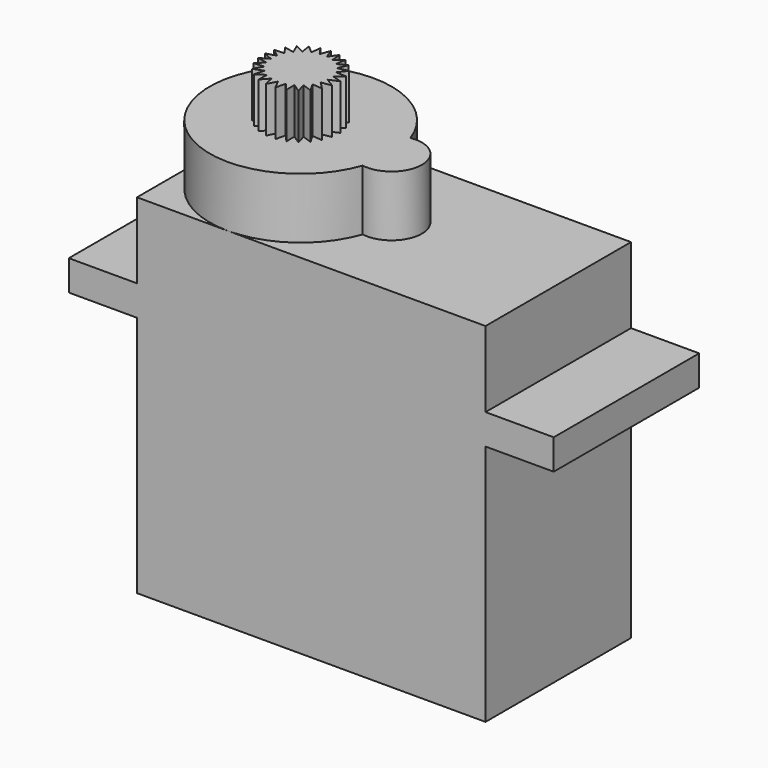
from build123d import *

# Parameters (mm, degrees)
F0_W     = 6
F0_H     = 4
F0_W_2   = 2
F0_W_3   = 23
F0_H_2   = 16
F0_H_3   = 2
F0_W_4   = 4.5
F3_DEPTH = 6
F5_START = 27
F5_DEPTH = 3


with BuildPart() as f1:
    # F0 (on Front) → F1 (revolve)
    with BuildSketch(Plane.XZ):
        with Locations((-20, 25)):
            Rectangle(F0_W, F0_H)
    revolve(axis=Axis((-17, 0, 25), (0, 0, 1)))

    # F0 (on Front) → F2 (revolve)
    with BuildSketch(Plane.XZ):
        with Locations((-10, 25)):
            Rectangle(F0_W_2, F0_H)
    revolve(axis=Axis((-11, 0, 25), (0, 0, -1)))

    # F0 (on Front) → F3 (join, symmetric)
    with BuildSketch(Plane.XZ):
        with Locations((-11.5, 8)):
            Rectangle(F0_W_3, F0_H_2)
        with Locations((-11.5, 17)):
            Rectangle(F0_W_3, F0_H_3)
        with Locations((2.25, 17)):
            Rectangle(F0_W_4, F0_H_3)
        with Locations((-25.25, 17)):
            Rectangle(F0_W_4, F0_H_3)
        Polygon((-23, 18), (0, 18), (0, 23), (-9, 23), (-11, 23), (-17, 23), (-23, 23), align=None)
    extrude(amount=F3_DEPTH, both=True)


with BuildPart() as f5:
    # F4 (on Top) → F5 (new body)
    with BuildSketch(Plane.XY.offset(F5_START)):
        Polygon((-15.1286998842, -0.1177322241), (-15.1582114049, 0.3513399648), (-15.3034492766, 0.7983361717), (-15.5552876698, 1.1951699808), (-15.897902652, 1.5169068645), (-16.3097664637, 1.743330911), (-16.7650001871, 1.860215065), (-17.2349998129, 1.860215065), (-17.6902335363, 1.743330911), (-18.102097348, 1.5169068645), (-18.4447123302, 1.1951699808), (-18.6965507234, 0.7983361717), (-18.8417885951, 0.3513399648), (-18.8713001158, -0.1177322241), (-18.7832309681, -0.5794068645), (-18.5831148603, -1.0046752406), (-18.2835258236, -1.3668161764), (-17.9032881389, -1.6430750251), (-17.4662935384, -1.8160934271), (-17, -1.875), (-16.5337064616, -1.8160934271), (-16.0967118611, -1.6430750251), (-15.7164741764, -1.3668161764), (-15.4168851397, -1.0046752406), (-15.2167690319, -0.5794068645), align=None)
        Polygon((-18.4447123302, 1.1951699808), (-19.1108198138, 1.3395669874), (-18.6965507234, 0.7983361717), align=None)
        Polygon((-18.6965507234, 0.7983361717), (-19.3776412907, 0.7725424859), (-18.8417885951, 0.3513399648), align=None)
        Polygon((-18.8417885951, 0.3513399648), (-19.4950668211, 0.1569762988), (-18.8713001158, -0.1177322241), align=None)
        Polygon((-18.8713001158, -0.1177322241), (-19.4557181268, -0.4684532865), (-18.7832309681, -0.5794068645), align=None)
        Polygon((-18.7832309681, -0.5794068645), (-19.2620676312, -1.0644482289), (-18.5831148603, -1.0046752406), align=None)
        Polygon((-18.5831148603, -1.0046752406), (-18.9262831069, -1.5935599744), (-18.2835258236, -1.3668161764), align=None)
        Polygon((-18.2835258236, -1.3668161764), (-18.4694631307, -2.0225424859), (-17.9032881389, -1.6430750251), align=None)
        Polygon((-17.9032881389, -1.6430750251), (-17.9203113817, -2.3244412147), (-17.4662935384, -1.8160934271), align=None)
        Polygon((-17.4662935384, -1.8160934271), (-17.3133330839, -2.4802867533), (-17, -1.875), align=None)
        Polygon((-17, -1.875), (-16.6866669161, -2.4802867533), (-16.5337064616, -1.8160934271), align=None)
        Polygon((-16.5337064616, -1.8160934271), (-16.0796886183, -2.3244412147), (-16.0967118611, -1.6430750251), align=None)
        Polygon((-16.0967118611, -1.6430750251), (-15.5305368693, -2.0225424859), (-15.7164741764, -1.3668161764), align=None)
        Polygon((-15.7164741764, -1.3668161764), (-15.0737168931, -1.5935599744), (-15.4168851397, -1.0046752406), align=None)
        Polygon((-15.4168851397, -1.0046752406), (-14.7379323688, -1.0644482289), (-15.2167690319, -0.5794068645), align=None)
        Polygon((-15.2167690319, -0.5794068645), (-14.5442818732, -0.4684532865), (-15.1286998842, -0.1177322241), align=None)
        Polygon((-15.1286998842, -0.1177322241), (-14.5049331789, 0.1569762988), (-15.1582114049, 0.3513399648), align=None)
        Polygon((-15.5552876698, 1.1951699808), (-15.2886322352, 1.8224215686), (-15.897902652, 1.5169068645), align=None)
        Polygon((-15.3034492766, 0.7983361717), (-14.8891801862, 1.3395669874), (-15.5552876698, 1.1951699808), align=None)
        Polygon((-15.1582114049, 0.3513399648), (-14.6223587093, 0.7725424859), (-15.3034492766, 0.7983361717), align=None)
        Polygon((-18.102097348, 1.5169068645), (-18.7113677648, 1.8224215686), (-18.4447123302, 1.1951699808), align=None)
        Polygon((-17.6902335363, 1.743330911), (-18.2043841853, 2.1907667001), (-18.102097348, 1.5169068645), align=None)
        Polygon((-17.2349998129, 1.860215065), (-17.6217247179, 2.4214579028), (-17.6902335363, 1.743330911), align=None)
        Polygon((-16.7650001871, 1.860215065), (-17, 2.5), (-17.2349998129, 1.860215065), align=None)
        Polygon((-16.3097664637, 1.743330911), (-16.3782752821, 2.4214579028), (-16.7650001871, 1.860215065), align=None)
        Polygon((-15.897902652, 1.5169068645), (-15.7956158147, 2.1907667001), (-16.3097664637, 1.743330911), align=None)
    extrude(amount=F5_DEPTH)


solid = Compound([f1.part, f5.part])
